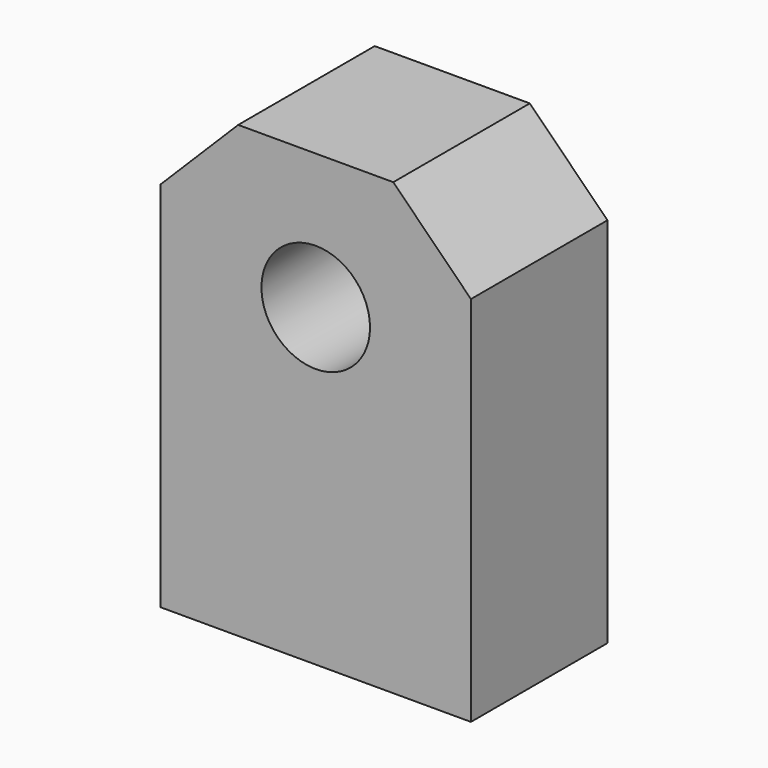
from build123d import *

# Parameters (mm, degrees)
F0_W     = 40.005
F0_H     = 57.9882
F0_R     = 6.9977
F1_DEPTH = 21.9964
F2_SIZE  = 10.0076


with BuildPart() as f1:
    # F0 (on Front) → F1 (new body)
    with BuildSketch(Plane.XZ):
        with Locations((0, -2.361171)):
            Rectangle(F0_W, F0_H)
        with Locations((0, 9.17236)):
            Circle(F0_R, mode=Mode.SUBTRACT)
    extrude(amount=F1_DEPTH)

    # F2
    f2_edges = [f1.edges().sort_by_distance(p)[0] for p in [
        (20.0025, -10.9982, 26.632929),
        (-20.0025, -10.9982, 26.632929),
    ]]
    chamfer(f2_edges, length=F2_SIZE)


solid = f1.part
